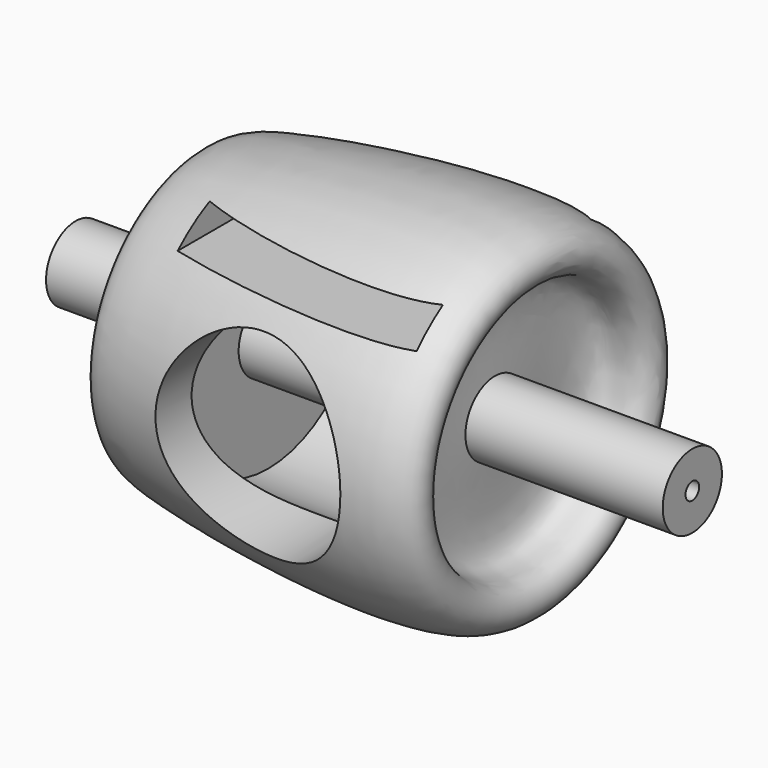
from build123d import *

# Parameters (mm, degrees)
F2_R     = 32.1840464685
F3_DEPTH = 63.5
F4_R     = 12.1911419202
F5_DEPTH = 101.6
F6_R     = 2.8139878863
F7_DEPTH = 203.2010001
F8_W     = 82.9309299588
F8_H     = 9.0413428843
F9_DEPTH = 63.5


with BuildPart() as f1:
    # F0 (on Front) → F1 (revolve)
    with BuildSketch(Plane.XZ):
        with BuildLine():
            add(Edge.make_bspline(
                [(-40.5393727124, 0), (-41.9364419634, 8.1540216408), (-44.4095283665, 22.5882381526), (-60.4591945079, 24.8490687724), (-61.2089927336, 45.9531354527), (-54.2678923319, 52.1984862228), (57.9458852346, 67.0620193873), (52.1962284595, 39.6521625602), (34.9804001967, 43.4447561151), (36.5894427193, 14.2937277711), (36.866899122, 4.4042552829), (36.9904637337, 0)],
                knots=[0, 0, 0, 0, 0.1128075635, 0.199691498, 0.298812568, 0.3755890967, 0.6217745376, 0.7023078567, 0.7851499692, 0.9043170013, 1, 1, 1, 1], degree=3))
            Line((-40.5393727124, 0), (-38.1298437715, 0))
            Line((-38.1298437715, 0), (-38.1298437715, 39.0034131706))
            Line((-38.1298437715, 39.0034131706), (4.9781636335, 39.0034131706))
            Line((4.9781636335, 39.0034131706), (4.9781636335, 0))
            Line((4.9781636335, 0), (36.9904637337, 0))
        make_face()
    revolve(axis=Axis((5.0503574312, 0, 0), (1, 0, 0)))

    # F2 (on Front) → F3 (cut, symmetric)
    with BuildSketch(Plane.XZ):
        Circle(F2_R)
    extrude(amount=F3_DEPTH, both=True, mode=Mode.SUBTRACT)

    # F4 (on Right) → F5 (join, symmetric)
    with BuildSketch(Plane.YZ):
        Circle(F4_R)
    extrude(amount=F5_DEPTH, both=True)

    # F6 (on face) → F7 (cut, through all)
    with BuildSketch(Plane.YZ.offset(101.6)):
        Circle(F6_R)
    extrude(amount=-F7_DEPTH, mode=Mode.SUBTRACT)

    # F8 (on Front) → F9 (cut, symmetric)
    with BuildSketch(Plane.XZ):
        with Locations((2.3382790387, 43.0243182927)):
            Rectangle(F8_W, F8_H)
    extrude(amount=F9_DEPTH, both=True, mode=Mode.SUBTRACT)


solid = f1.part
